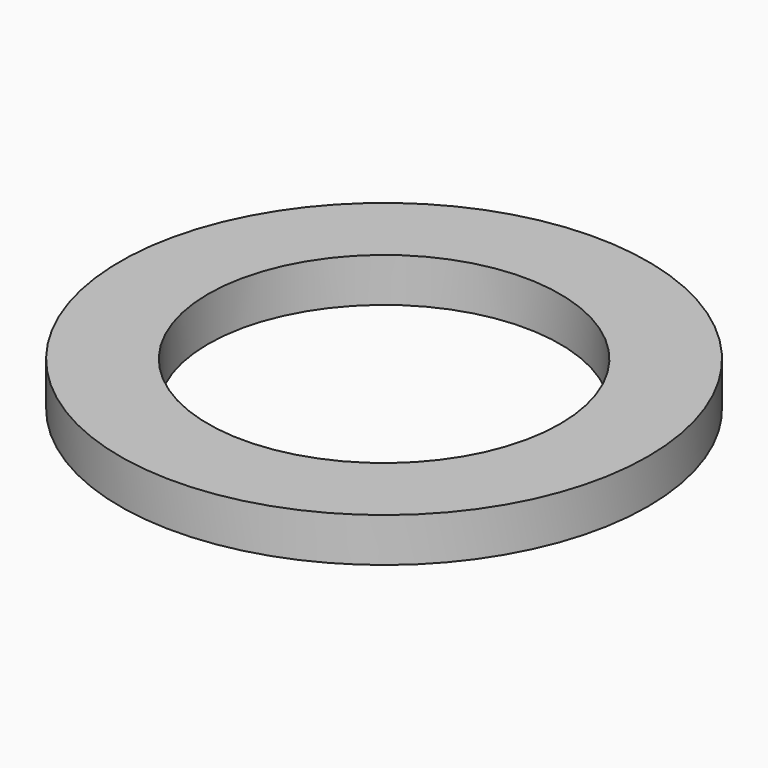
from build123d import *

# Parameters (mm, degrees)
SKETCH008_R   = 30
SKETCH008_R_2 = 20
PAD007_DEPTH  = 5


with BuildPart() as part:
    # Sketch008 → Pad007 (new body)
    with BuildSketch(Plane.XY):
        Circle(SKETCH008_R)
        Circle(SKETCH008_R_2, mode=Mode.SUBTRACT)
    extrude(amount=PAD007_DEPTH)


solid = part.part
